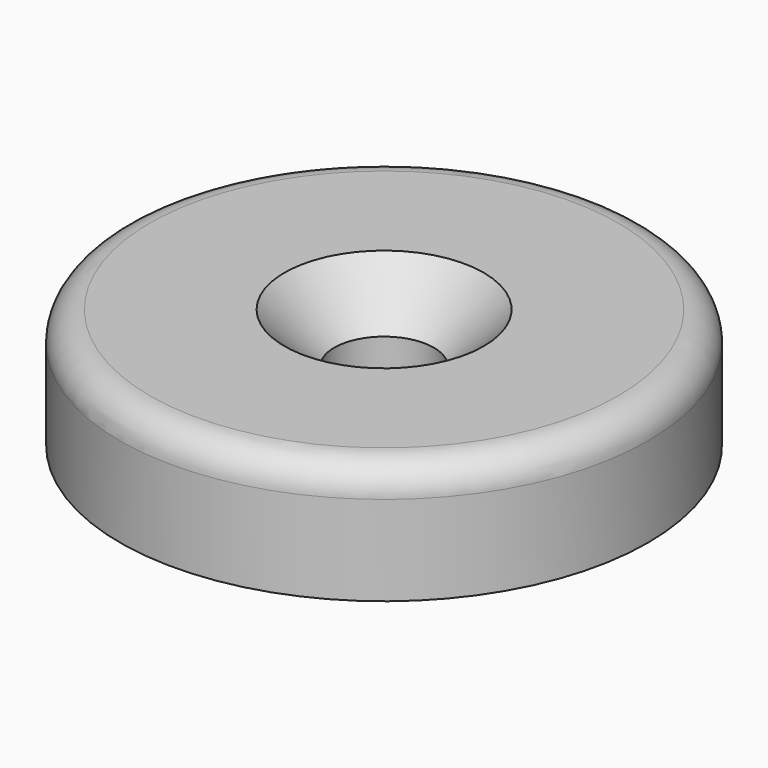
from build123d import *

# Parameters (mm, degrees)
SKETCH_R     = 13.25
PAD_DEPTH    = 6
FILLET_R     = 1.5
SKETCH001_R  = 2.5
POCKET_DEPTH = 6.001
CHAMFER_SIZE = 2.5


with BuildPart() as part:
    # Sketch → Pad (new body)
    with BuildSketch(Plane.XY):
        Circle(SKETCH_R)
    extrude(amount=PAD_DEPTH)

    # Fillet
    fillet_edges = [part.edges().sort_by_distance(p)[0] for p in [
        (-13.25, 0, 6),
    ]]
    fillet(fillet_edges, radius=FILLET_R)

    # Sketch001 (on Face4 of Fillet) → Pocket (cut, through all)
    with BuildSketch(Plane.XY.offset(6)):
        Circle(SKETCH001_R)
    extrude(amount=-POCKET_DEPTH, mode=Mode.SUBTRACT)

    # Chamfer
    chamfer_edges = [part.edges().sort_by_distance(p)[0] for p in [
        (-2.5, 0, 6),
    ]]
    chamfer(chamfer_edges, length=CHAMFER_SIZE)


solid = part.part
